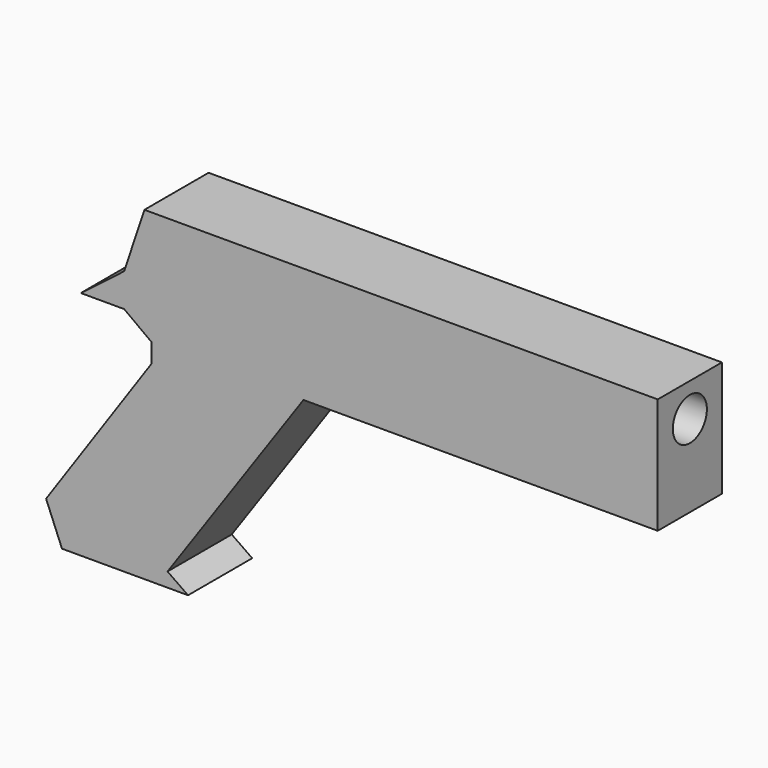
from build123d import *

# Parameters (mm, degrees)
F1_DEPTH = 6.35
F2_R     = 3.37023
F3_DEPTH = 50.8


with BuildPart() as f1:
    # F0 (on Front) → F1 (new body, symmetric)
    with BuildSketch(Plane.XZ):
        Polygon((49.104851, 42.923819), (-32.16425, 42.923819), (-35.369229, 33.308882), (-42.23704, 28.043561), (-35.369229, 28.043561), (-31.019615, 24.838584), (-31.019615, 21.862533), (-47.731288, -2.403734), (-45.213088, -8.555476), (-25.255695, -8.555476), (-28.501416, -6.295493), (-6.982275, 24.609657), (49.104851, 24.609657), align=None)
    extrude(amount=F1_DEPTH, both=True)

    # F2 (on face) → F3 (cut)
    with BuildSketch(Plane.YZ.offset(49.104851)):
        with Locations((0, 37.606921)):
            Circle(F2_R)
    extrude(amount=-F3_DEPTH, mode=Mode.SUBTRACT)


solid = f1.part
